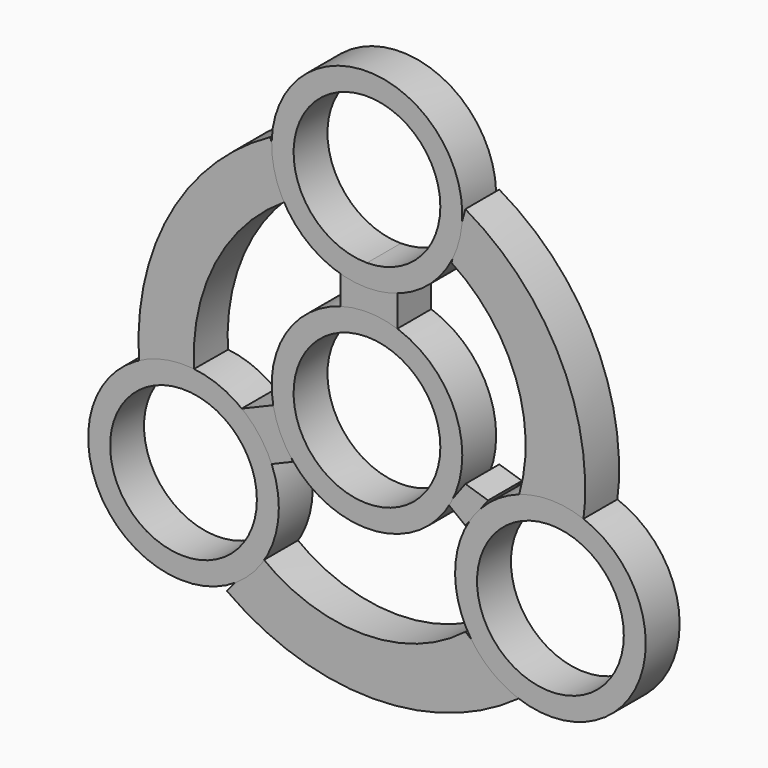
from build123d import *

# Parameters (mm, degrees)
F2_DEPTH    = 25.4
F0_R        = 14.2875
F0_R_2      = 10.9982
F2_FACE_R   = 14.2875
F2_FACE_R_2 = 10.9982
F3_DEPTH    = 19.05


with BuildPart() as f2:
    # F1 (on Front) → F2 (new body)
    with BuildSketch(Plane.XZ):
        with BuildLine():
            Line((-12.1575798839, 24.8825736344), (-14.4856730476, 32.6428860426))
            ThreePointArc((-14.4856730476, 32.6428860426), (-29.6381251767, 17.4249747886), (-34.1451242566, -3.5718961153))
            Line((-34.1451242566, -3.5718961153), (-25.8674621582, -2.5371881202))
            ThreePointArc((-25.8674621582, -2.5371881202), (-22.8596873169, 13.096276101), (-12.1575798839, 24.8825736344))
        make_face()
    extrude(amount=F2_DEPTH)


with BuildPart() as f2b:
    # F1 (on Front) → F2, piece 2 (new body)
    with BuildSketch(Plane.XZ):
        with BuildLine():
            ThreePointArc((12.6754119992, 24.8825736344), (22.2850246185, 12.8524195086), (22.7638147771, -2.5371881202))
            Line((22.7638147771, -2.5371881202), (32.3348678648, -3.5718961153))
            ThreePointArc((32.3348678648, -3.5718961153), (29.1131255688, 17.2425161523), (14.7448275238, 32.6428860426))
            Line((14.7448275238, 32.6428860426), (12.6754119992, 24.8825736344))
        make_face()
    extrude(amount=F2_DEPTH)


with BuildPart() as f2c:
    # F1 (on Front) → F2, piece 3 (new body)
    with BuildSketch(Plane.XZ):
        Polygon((18.1582998484, -4.681436345), (14.7536145523, -3.6133122598), (12.1554992524, -7.1213860189), (14.7536145523, -9.1160812369), align=None)
    extrude(amount=F2_DEPTH)


with BuildPart() as f2d:
    # F1 (on Front) → F2, piece 4 (new body)
    with BuildSketch(Plane.XZ):
        Polygon((4.5395721681, 20.0025010854), (-3.9721252397, 18.8676062971), (-3.9721252397, 12.909415178), (4.5395721681, 12.909415178), align=None)
    extrude(amount=F2_DEPTH)


with BuildPart() as f2e:
    # F1 (on Front) → F2, piece 5 (new body)
    with BuildSketch(Plane.XZ):
        Polygon((-13.9024481177, -2.5371881202), (-19.009469077, -4.681436345), (-14.7945646839, -10.6504065937), (-11.1402154974, -9.1160812369), align=None)
    extrude(amount=F2_DEPTH)


with BuildPart() as f2f:
    # F1 (on Front) → F2, piece 6 (new body)
    with BuildSketch(Plane.XZ):
        with BuildLine():
            ThreePointArc((14.7536145523, -23.1234580278), (-0.5674478598, -28.4201810934), (-15.8885102719, -23.1234580278))
            Line((-15.8885102719, -23.1234580278), (-20.9955312312, -29.3653719127))
            ThreePointArc((-20.9955312312, -29.3653719127), (0.8511710912, -36.4453007575), (22.6978734136, -29.3653719127))
            Line((22.6978734136, -29.3653719127), (14.7536145523, -23.1234580278))
        make_face()
    extrude(amount=F2_DEPTH)


with BuildPart() as f2g:
    # F0 (on Front) → F2, piece 7 (new body)
    with BuildSketch(Plane.XZ):
        with Locations((27.4963065702, -15.875)):
            Circle(F0_R)
        with Locations((27.4963065702, -15.875)):
            Circle(F0_R_2, mode=Mode.SUBTRACT)
    extrude(amount=F2_DEPTH)


with BuildPart() as f2h:
    # F0 (on Front) → F2, piece 8 (new body)
    with BuildSketch(Plane.XZ):
        with BuildLine():
            ThreePointArc((0, 14.2875), (-10.1027881362, -10.1027881362), (14.2875, 0))
            ThreePointArc((14.2875, 0), (10.1027881362, 10.1027881362), (0, 14.2875))
        make_face()
        with BuildLine():
            ThreePointArc((10.9982, 0), (-7.7769018008, -7.7769018008), (0, 10.9982))
            ThreePointArc((0, 10.9982), (7.7769018008, 7.7769018008), (10.9982, 0))
        make_face(mode=Mode.SUBTRACT)
    extrude(amount=F2_DEPTH)


with BuildPart() as f2i:
    # F0 (on Front) → F2, piece 9 (new body)
    with BuildSketch(Plane.XZ):
        with BuildLine():
            ThreePointArc((14.2875, 31.75), (-10.1027881362, 41.8527881362), (0, 17.4625))
            ThreePointArc((0, 17.4625), (10.1027881362, 21.6472118638), (14.2875, 31.75))
        make_face()
        with BuildLine():
            ThreePointArc((10.9982, 31.75), (7.7769018008, 23.9730981992), (0, 20.7518))
            ThreePointArc((0, 20.7518), (-7.7769018008, 39.5269018008), (10.9982, 31.75))
        make_face(mode=Mode.SUBTRACT)
    extrude(amount=F2_DEPTH)


with BuildPart() as f2j:
    # F0 (on Front) → F2, piece 10 (new body)
    with BuildSketch(Plane.XZ):
        with Locations((-27.4963065702, -15.875)):
            Circle(F0_R)
        with Locations((-27.4963065702, -15.875)):
            Circle(F0_R_2, mode=Mode.SUBTRACT)
    extrude(amount=F2_DEPTH)


with BuildPart() as f3_tool:
    # F2_face (on face) → F3 (new body)
    with BuildSketch(Plane(origin=(-24.9404364101, -25.4, 14.3906853259), x_dir=(1, 0, 0), z_dir=(0, -1, 0))):
        with BuildLine():
            ThreePointArc((-0.9270257481, -16.9278734461), (2.0807490932, -1.2944092249), (12.7828565261, 10.4918883085))
            Line((12.7828565261, 10.4918883085), (10.4547633625, 18.2522007167))
            ThreePointArc((10.4547633625, 18.2522007167), (-4.6976887667, 3.0342894627), (-9.2046878465, -17.9625814412))
            Line((-9.2046878465, -17.9625814412), (-0.9270257481, -16.9278734461))
        make_face()
        with Locations((-2.5558701601, -30.2656853259)):
            Circle(F2_FACE_R)
        with Locations((-2.5558701601, -30.2656853259)):
            Circle(F2_FACE_R_2, mode=Mode.SUBTRACT)
        with Locations((24.9404364101, -14.3906853259)):
            Circle(F2_FACE_R)
        with Locations((24.9404364101, -14.3906853259)):
            Circle(F2_FACE_R_2, mode=Mode.SUBTRACT)
        Polygon((10.1458717262, -25.0410919196), (13.8002209127, -23.5067665627), (11.0379882923, -16.9278734461), (5.9309673331, -19.0721216709), align=None)
        with BuildLine():
            ThreePointArc((39.6940509624, -37.5141433537), (24.3729885503, -42.8108664193), (9.0519261382, -37.5141433537))
            Line((9.0519261382, -37.5141433537), (3.9449051789, -43.7560572386))
            ThreePointArc((3.9449051789, -43.7560572386), (25.7916075013, -50.8359860834), (47.6383098236, -43.7560572386))
            Line((47.6383098236, -43.7560572386), (39.6940509624, -37.5141433537))
        make_face()
        with Locations((52.4367429802, -30.2656853259)):
            Circle(F2_FACE_R)
        with Locations((52.4367429802, -30.2656853259)):
            Circle(F2_FACE_R_2, mode=Mode.SUBTRACT)
        Polygon((39.6940509624, -23.5067665627), (43.0987362585, -19.0721216709), (39.6940509624, -18.0039975857), (37.0959356624, -21.5120713448), align=None)
        with Locations((24.9404364101, 17.3593146741)):
            Circle(F2_FACE_R)
        with Locations((24.9404364101, 17.3593146741)):
            Circle(F2_FACE_R_2, mode=Mode.SUBTRACT)
        Polygon((29.4800085782, 5.6118157595), (20.9683111704, 4.4769209713), (20.9683111704, -1.4812701479), (29.4800085782, -1.4812701479), align=None)
        with BuildLine():
            Line((39.6852639339, 18.2522007167), (37.6158484093, 10.4918883085))
            ThreePointArc((37.6158484093, 10.4918883085), (47.2254610285, -1.5382658173), (47.7042511872, -16.9278734461))
            Line((47.7042511872, -16.9278734461), (57.2753042749, -17.9625814412))
            ThreePointArc((57.2753042749, -17.9625814412), (54.0535619789, 2.8518308264), (39.6852639339, 18.2522007167))
        make_face()
    extrude(amount=-F3_DEPTH)


with BuildPart() as f2_1:
    add(f2.part)

    # F3: cut by f3_tool
    add(f3_tool.part, mode=Mode.SUBTRACT)


with BuildPart() as f2b_1:
    add(f2b.part)

    # F3: cut by f3_tool
    add(f3_tool.part, mode=Mode.SUBTRACT)


with BuildPart() as f2c_1:
    add(f2c.part)

    # F3: cut by f3_tool
    add(f3_tool.part, mode=Mode.SUBTRACT)


with BuildPart() as f2d_1:
    add(f2d.part)

    # F3: cut by f3_tool
    add(f3_tool.part, mode=Mode.SUBTRACT)


with BuildPart() as f2e_1:
    add(f2e.part)

    # F3: cut by f3_tool
    add(f3_tool.part, mode=Mode.SUBTRACT)


with BuildPart() as f2f_1:
    add(f2f.part)

    # F3: cut by f3_tool
    add(f3_tool.part, mode=Mode.SUBTRACT)


with BuildPart() as f2g_1:
    add(f2g.part)

    # F3: cut by f3_tool
    add(f3_tool.part, mode=Mode.SUBTRACT)


with BuildPart() as f2h_1:
    add(f2h.part)

    # F3: cut by f3_tool
    add(f3_tool.part, mode=Mode.SUBTRACT)


with BuildPart() as f2i_1:
    add(f2i.part)

    # F3: cut by f3_tool
    add(f3_tool.part, mode=Mode.SUBTRACT)


with BuildPart() as f2j_1:
    add(f2j.part)

    # F3: cut by f3_tool
    add(f3_tool.part, mode=Mode.SUBTRACT)


solid = Compound([f2_1.part, f2b_1.part, f2c_1.part, f2d_1.part, f2e_1.part, f2f_1.part, f2g_1.part, f2h_1.part, f2i_1.part, f2j_1.part])
